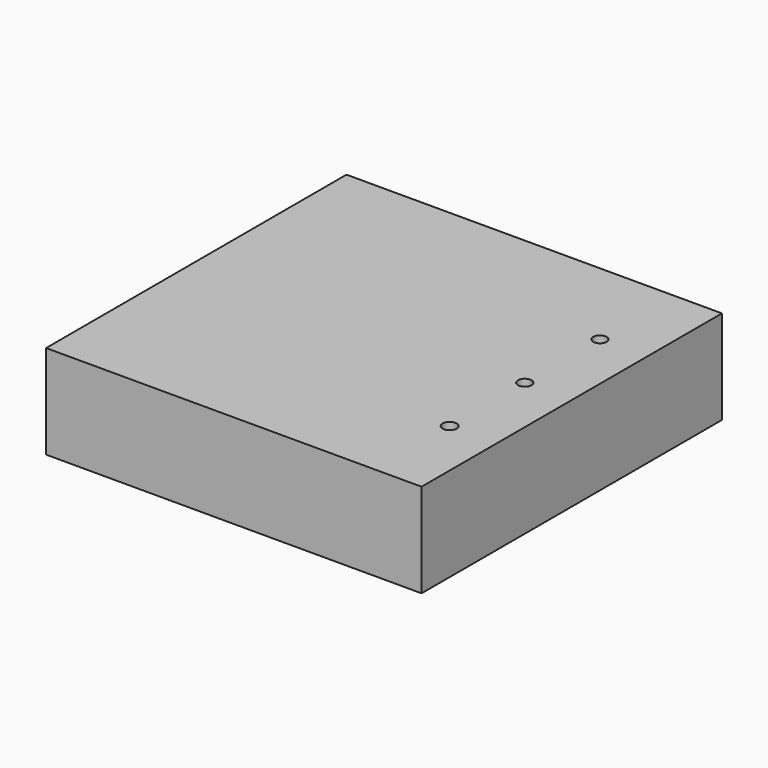
from build123d import *

# Parameters (mm, degrees)
F0_W           = 101.6
F0_H           = 101.6
F1_DEPTH       = 25.4
F2_D           = 3.7973
F3_D           = 3.6576
F3_CSINK_D     = 9.1186
F3_CSINK_ANGLE = 82


with BuildPart() as f1:
    # F0 (on Top) → F1 (new body)
    with BuildSketch(Plane.XY):
        Rectangle(F0_W, F0_H)
    extrude(amount=F1_DEPTH)

    # F2 (through all)
    with Locations(Plane(origin=(0, 0, 0), x_dir=(1, 0, 0), z_dir=(0, 0, -1))):
        with Locations((38.1, 25.4)):
            Hole(F2_D / 2)

    # F3 (through all)
    with Locations(Plane(origin=(0, 0, 0), x_dir=(1, 0, 0), z_dir=(0, 0, -1))):
        with Locations((38.1, 0), (38.1, -25.4)):
            CounterSinkHole(F3_D / 2, F3_CSINK_D / 2, counter_sink_angle=F3_CSINK_ANGLE)


solid = f1.part
